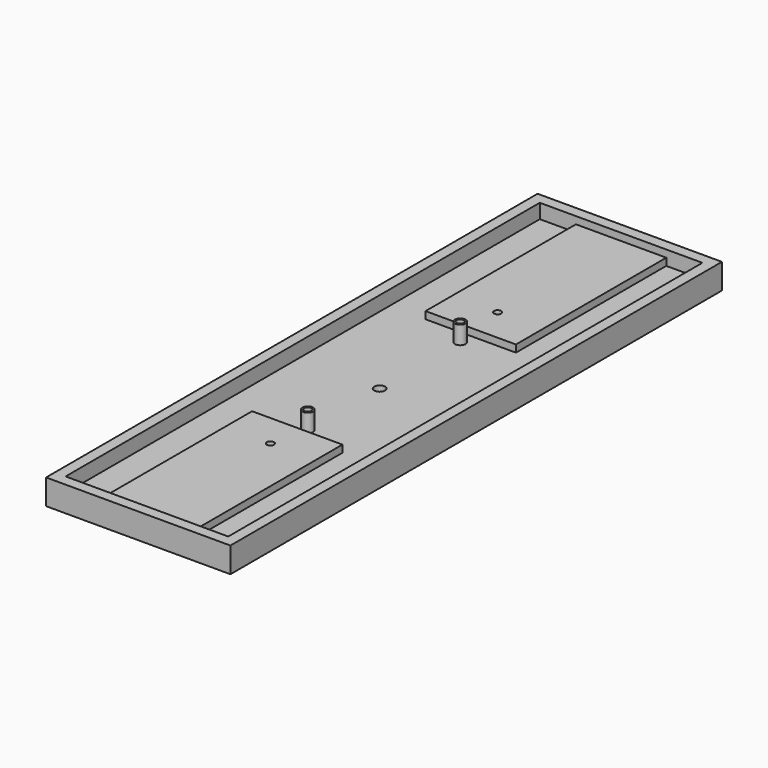
from build123d import *

# Parameters (mm, degrees)
F0_W          = 25
F0_H          = 52
F0_R          = 1
F1_DEPTH      = 2
F0_W_2        = 51
F0_H_2        = 170
F0_R_2        = 1.5
F2_DEPTH      = 3
F3_W          = 51
F3_H          = 170
F4_DEPTH      = 4
F5_R          = 1.5
F5_R_2        = 1
F6_DEPTH      = 5
F6_DEPTH_BACK = 3
F7_R          = 1.5
F7_R_2        = 1
F8_DEPTH      = 7


with BuildPart() as f1:
    # F0 (on Top) → F1 (new body)
    with BuildSketch(Plane.XY):
        with Locations((12.5, -86)):
            Rectangle(F0_W, F0_H)
        with Locations((12.5, -69.3)):
            Circle(F0_R, mode=Mode.SUBTRACT)
        with Locations((12.5, 26)):
            Rectangle(F0_W, F0_H)
        with Locations((12.5, 9.3)):
            Circle(F0_R, mode=Mode.SUBTRACT)
    extrude(amount=F1_DEPTH)

    # F0 (on Top) → F2 (join)
    with BuildSketch(Plane.XY):
        with Locations((12.5, -30)):
            Rectangle(F0_W_2, F0_H_2)
        with Locations((12.5, -86)):
            Rectangle(F0_W, F0_H, mode=Mode.SUBTRACT)
        with Locations((12.5, -56.36)):
            Circle(F0_R_2, mode=Mode.SUBTRACT)
        with Locations((12.5, -31.5)):
            Circle(F0_R_2, mode=Mode.SUBTRACT)
        with Locations((12.5, -3.64)):
            Circle(F0_R_2, mode=Mode.SUBTRACT)
        with Locations((12.5, 26)):
            Rectangle(F0_W, F0_H, mode=Mode.SUBTRACT)
        with Locations((12.5, -86)):
            Rectangle(F0_W, F0_H)
        with Locations((12.5, -69.3)):
            Circle(F0_R, mode=Mode.SUBTRACT)
        with Locations((12.5, 26)):
            Rectangle(F0_W, F0_H)
        with Locations((12.5, 9.3)):
            Circle(F0_R, mode=Mode.SUBTRACT)
    extrude(amount=-F2_DEPTH)

    # F3 (on face) → F4 (join)
    with BuildSketch(Plane.XY):
        with Locations((12.5, -30)):
            Rectangle(F3_W, F3_H)
        Polygon((-10, -112), (-10, 52), (0, 52), (25, 52), (35, 52), (35, -112), (25, -112), (0, -112), align=None, mode=Mode.SUBTRACT)
    extrude(amount=F4_DEPTH)

    # F5 (on face) → F6 (join, two sides)
    with BuildSketch(Plane.XY) as f6_sk:
        with Locations((12.5, -3.64)):
            Circle(F5_R)
        with Locations((12.5, -3.64)):
            Circle(F5_R_2, mode=Mode.SUBTRACT)
        with Locations((12.5, -31.5)):
            Circle(F5_R)
        with Locations((12.5, -31.5)):
            Circle(F5_R_2, mode=Mode.SUBTRACT)
        with Locations((12.5, -56.36)):
            Circle(F5_R)
        with Locations((12.5, -56.36)):
            Circle(F5_R_2, mode=Mode.SUBTRACT)
    extrude(amount=F6_DEPTH)
    extrude(f6_sk.sketch, amount=-F6_DEPTH_BACK)

    # F7 (on face) → F8 (cut)
    with BuildSketch(Plane.XY.offset(5)):
        with Locations((12.5, -31.5)):
            Circle(F7_R)
        with Locations((12.5, -31.5)):
            Circle(F7_R_2, mode=Mode.SUBTRACT)
    extrude(amount=-F8_DEPTH, mode=Mode.SUBTRACT)


solid = f1.part
